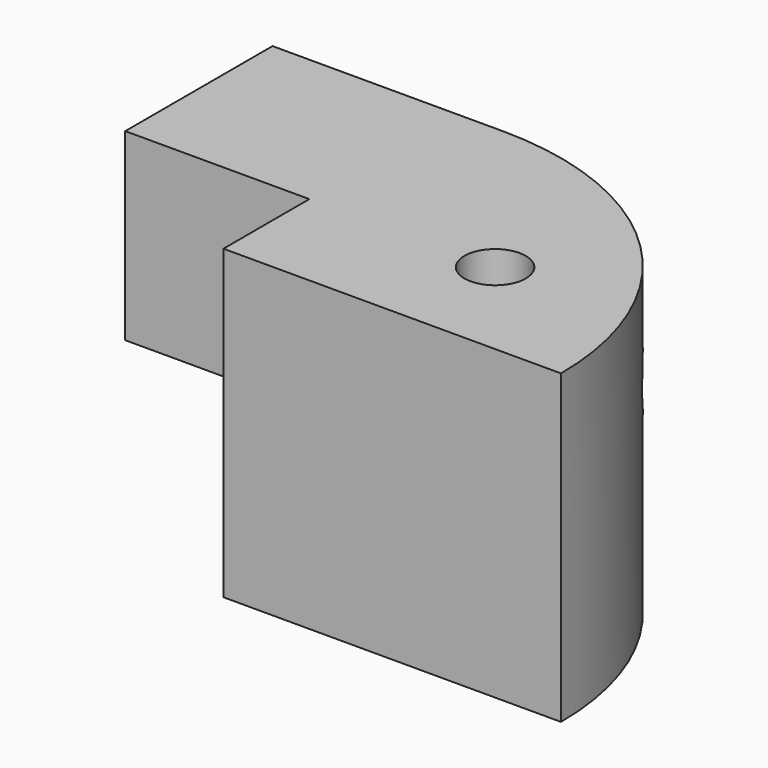
from build123d import *

# Parameters (mm, degrees)
F0_W      = 215.9
F0_H      = 120.65
F1_DEPTH  = 127
F2_W      = 76.2
F2_H      = 44.45
F3_DEPTH  = 25.4
F3_FACE_W = 76.2
F3_FACE_H = 44.45
F4_DEPTH  = 101.601
F6_DEPTH  = 127.001
F7_W      = 50.8
F7_H      = 50.8
F8_DEPTH  = 120.651
F9_R      = 12.7
F10_DEPTH = 215.901
F12_R     = 12.7
F13_DEPTH = 127.001


with BuildPart() as f1:
    # F0 (on Top) → F1 (new body)
    with BuildSketch(Plane.XY):
        with Locations((-42.923508, 24.775881)):
            Rectangle(F0_W, F0_H)
    extrude(amount=F1_DEPTH)

    # F2 (on face) → F3 (cut)
    with BuildSketch(Plane.XY.offset(127)):
        with Locations((-112.773508, -13.324119)):
            Rectangle(F2_W, F2_H)
    extrude(amount=-F3_DEPTH, mode=Mode.SUBTRACT)

    # F3_face (on face) → F4 (cut, through all)
    with BuildSketch(Plane(origin=(-112.773508, -13.324119, 101.6), x_dir=(1, 0, 0), z_dir=(0, 0, 1))):
        Rectangle(F3_FACE_W, F3_FACE_H)
    extrude(amount=-F4_DEPTH, mode=Mode.SUBTRACT)

    # F5 (on face) → F6 (cut, through all)
    with BuildSketch(Plane.XY.offset(127)):
        with BuildLine():
            ThreePointArc((-55.623508, 85.100881), (29.688925, 49.763314), (65.026492, -35.549119))
            Line((65.026492, -35.549119), (65.026492, 85.100881))
            Line((65.026492, 85.100881), (-55.623508, 85.100881))
        make_face()
    extrude(amount=-F6_DEPTH, mode=Mode.SUBTRACT)

    # F7 (on face) → F8 (cut, through all)
    with BuildSketch(Plane(origin=(0, 85.100881, 0), x_dir=(-1, 0, 0), z_dir=(0, 1, 0))):
        with Locations((125.473508, 25.4)):
            Rectangle(F7_W, F7_H)
    extrude(amount=-F8_DEPTH, mode=Mode.SUBTRACT)

    # F9 (on face) → F10 (cut, through all)
    with BuildSketch(Plane(origin=(-150.873508, 0, 0), x_dir=(0, -1, 0), z_dir=(-1, 0, 0))):
        with Locations((-47.000881, 85.454322)):
            Circle(F9_R)
    extrude(amount=-F10_DEPTH, mode=Mode.SUBTRACT)

    # F12 (on face) → F13 (cut, through all)
    with BuildSketch(Plane.XY.offset(127)):
        with Locations((1.959576, 9.196907)):
            Circle(F12_R)
    extrude(amount=-F13_DEPTH, mode=Mode.SUBTRACT)


solid = f1.part
